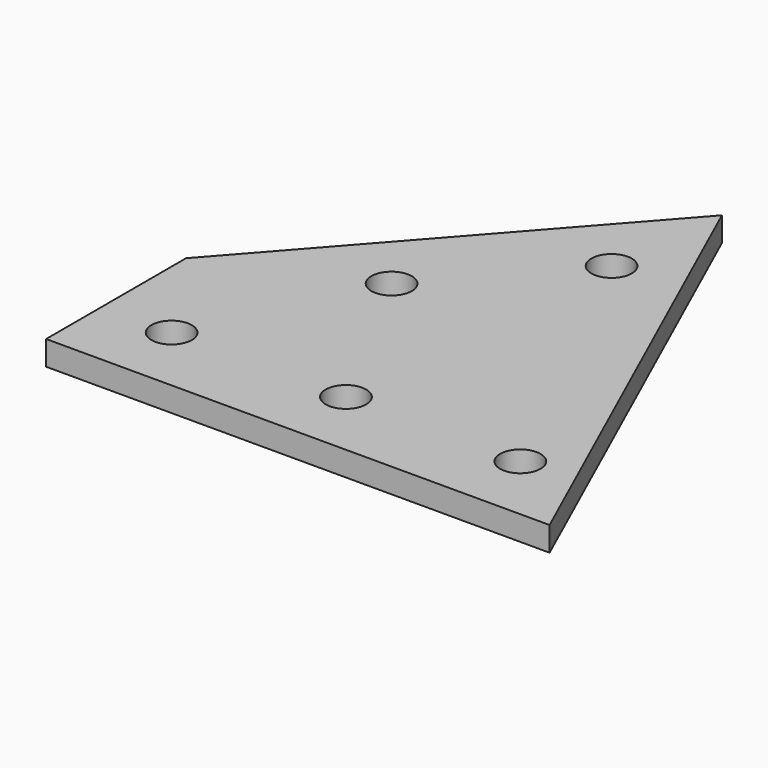
from build123d import *

# Parameters (mm, degrees)
SKETCH_R  = 2.9
PAD_DEPTH = 3.5


with BuildPart() as part:
    # Sketch → Pad (new body)
    with BuildSketch(Plane.XY):
        Polygon((0, -10), (0, 15.091605), (40.351065, 60.700187), (72.199177, -10), align=None)
        with Locations((21.815896, 24.658385)):
            Circle(SKETCH_R, mode=Mode.SUBTRACT)
        with Locations((38.381398, 43.382278)):
            Circle(SKETCH_R, mode=Mode.SUBTRACT)
        with Locations((60, 0)):
            Circle(SKETCH_R, mode=Mode.SUBTRACT)
        with Locations((35, 0)):
            Circle(SKETCH_R, mode=Mode.SUBTRACT)
        with Locations((10, 0)):
            Circle(SKETCH_R, mode=Mode.SUBTRACT)
    extrude(amount=PAD_DEPTH)


solid = part.part
